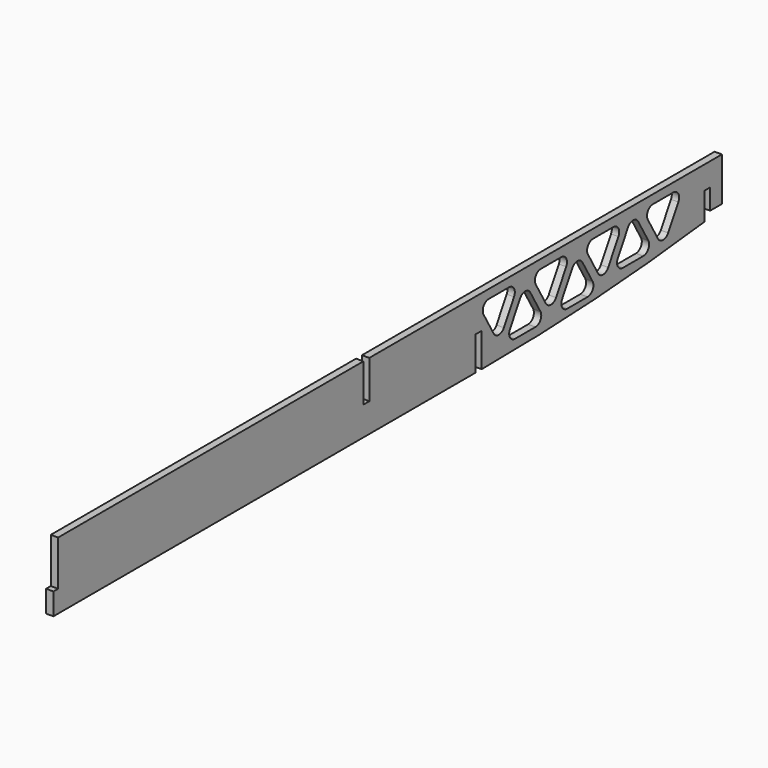
from build123d import *

# Parameters (mm, degrees)
F1_DEPTH = 3.175


with BuildPart() as f1:
    # F0 (on Right) → F1 (new body)
    with BuildSketch(Plane.YZ):
        with BuildLine():
            Line((46.394076, -58.570202), (-144.304461, -58.570202))
            Line((-144.304461, -58.570202), (-144.304461, -75.080202))
            Line((-144.304461, -75.080202), (-147.504861, -75.080202))
            Line((-147.504861, -75.080202), (-147.504861, -58.570202))
            Line((-147.504861, -58.570202), (-312.604861, -58.570202))
            Line((-312.604861, -58.570202), (-312.604861, -78.091796))
            Line((-312.604861, -78.091796), (-315.144861, -78.091796))
            Line((-315.144861, -78.091796), (-315.144861, -87.565996))
            Line((-315.144861, -87.565996), (-86.772296, -87.565996))
            Line((-86.772296, -87.565996), (-86.772296, -72.960996))
            Line((-86.772296, -72.960996), (-83.571896, -72.960996))
            Line((-83.571896, -72.960996), (-83.571896, -87.565996))
            Line((-83.571896, -87.565996), (-82.093418, -87.565996))
            ThreePointArc((-82.093418, -87.565996), (-22.517711, -85.778555), (36.843676, -80.422662))
            Line((36.843676, -80.422662), (36.843676, -68.559073))
            Line((36.843676, -68.559073), (40.044076, -68.559073))
            Line((40.044076, -68.559073), (40.044076, -77.449073))
            Line((40.044076, -77.449073), (46.394076, -77.449073))
            Line((46.394076, -77.449073), (46.394076, -58.570202))
        make_face()
        with BuildLine():
            Line((-54.485447, -83.335202), (-65.48397, -83.335202))
            ThreePointArc((-65.48397, -83.335202), (-68.233601, -81.747702), (-68.233601, -78.572702))
            Line((-68.233601, -78.572702), (-62.734339, -69.047702))
            ThreePointArc((-62.734339, -69.047702), (-59.984709, -67.460202), (-57.235078, -69.047702))
            Line((-57.235078, -69.047702), (-51.735817, -78.572702))
            ThreePointArc((-51.735817, -78.572702), (-51.735817, -81.747702), (-54.485447, -83.335202))
        make_face(mode=Mode.SUBTRACT)
        with BuildLine():
            Line((-40.019661, -78.572702), (-34.520399, -69.047702))
            ThreePointArc((-34.520399, -69.047702), (-31.770769, -67.460202), (-29.021138, -69.047702))
            Line((-29.021138, -69.047702), (-23.521877, -78.572702))
            ThreePointArc((-23.521877, -78.572702), (-23.521877, -81.747702), (-26.271507, -83.335202))
            Line((-26.271507, -83.335202), (-37.27003, -83.335202))
            ThreePointArc((-37.27003, -83.335202), (-40.019661, -81.747702), (-40.019661, -78.572702))
        make_face(mode=Mode.SUBTRACT)
        with BuildLine():
            ThreePointArc((-68.783527, -62.380202), (-66.033896, -63.967702), (-66.033896, -67.142702))
            Line((-66.033896, -67.142702), (-71.533157, -76.667702))
            ThreePointArc((-71.533157, -76.667702), (-74.282788, -78.255202), (-77.032419, -76.667702))
            Line((-77.032419, -76.667702), (-82.53168, -67.142702))
            ThreePointArc((-82.53168, -67.142702), (-82.53168, -63.967702), (-79.782049, -62.380202))
            Line((-79.782049, -62.380202), (-68.783527, -62.380202))
        make_face(mode=Mode.SUBTRACT)
        with BuildLine():
            ThreePointArc((-54.31774, -67.142702), (-54.31774, -63.967702), (-51.568109, -62.380202))
            Line((-51.568109, -62.380202), (-40.569587, -62.380202))
            ThreePointArc((-40.569587, -62.380202), (-37.819956, -63.967702), (-37.819956, -67.142702))
            Line((-37.819956, -67.142702), (-43.319217, -76.667702))
            ThreePointArc((-43.319217, -76.667702), (-46.068848, -78.255202), (-48.818479, -76.667702))
            Line((-48.818479, -76.667702), (-54.31774, -67.142702))
        make_face(mode=Mode.SUBTRACT)
        with BuildLine():
            ThreePointArc((6.607539, -75.255), (6.607539, -78.43), (3.857909, -80.0175))
            Line((3.857909, -80.0175), (-7.140614, -80.0175))
            ThreePointArc((-7.140614, -80.0175), (-9.890245, -78.43), (-9.890245, -75.255))
            Line((-9.890245, -75.255), (-4.390983, -65.73))
            ThreePointArc((-4.390983, -65.73), (-1.641353, -64.1425), (1.108278, -65.73))
            Line((1.108278, -65.73), (6.607539, -75.255))
        make_face(mode=Mode.SUBTRACT)
        with BuildLine():
            ThreePointArc((-26.1038, -67.142702), (-26.1038, -63.967702), (-23.354169, -62.380202))
            Line((-23.354169, -62.380202), (-12.355647, -62.380202))
            ThreePointArc((-12.355647, -62.380202), (-9.606016, -63.967702), (-9.606016, -67.142702))
            Line((-9.606016, -67.142702), (-15.105277, -76.667702))
            ThreePointArc((-15.105277, -76.667702), (-17.854908, -78.255202), (-20.604539, -76.667702))
            Line((-20.604539, -76.667702), (-26.1038, -67.142702))
        make_face(mode=Mode.SUBTRACT)
        with BuildLine():
            ThreePointArc((6.323311, -67.142702), (6.323311, -63.967702), (9.072942, -62.380202))
            Line((9.072942, -62.380202), (20.071464, -62.380202))
            ThreePointArc((20.071464, -62.380202), (22.821095, -63.967702), (22.821095, -67.142702))
            Line((22.821095, -67.142702), (17.321834, -76.667702))
            ThreePointArc((17.321834, -76.667702), (14.572203, -78.255202), (11.822572, -76.667702))
            Line((11.822572, -76.667702), (6.323311, -67.142702))
        make_face(mode=Mode.SUBTRACT)
    extrude(amount=F1_DEPTH)


solid = f1.part
